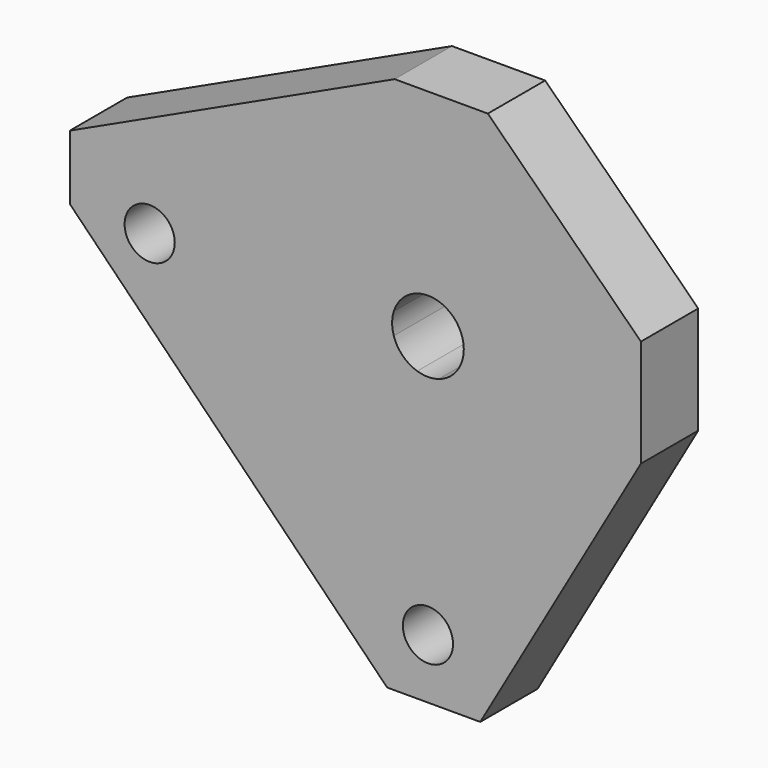
from build123d import *

# Parameters (mm, degrees)
F1_DEPTH = 5
F0_R     = 3.5
F2_DEPTH = 10


with BuildPart() as f1:
    # F0 (on Front) → F1 (new body)
    with BuildSketch(Plane.XZ):
        with BuildLine():
            ThreePointArc((-4.769696, -1.5), (-5, 0), (-4.769696, 1.5))
            Line((-4.769696, 1.5), (-24.769696, 1.5))
            Line((-24.769696, 1.5), (-24.769696, -1.5))
            Line((-24.769696, -1.5), (-4.769696, -1.5))
        make_face()
        with BuildLine():
            ThreePointArc((-1.5, 4.769696), (0, 5), (1.5, 4.769696))
            Line((1.5, 4.769696), (1.5, 24.769696))
            Line((1.5, 24.769696), (-1.5, 24.769696))
            Line((-1.5, 24.769696), (-1.5, 4.769696))
        make_face()
        with BuildLine():
            ThreePointArc((4.769696, 1.5), (4.942089, 0.758788), (5, 0))
            ThreePointArc((5, 0), (4.942089, -0.758788), (4.769696, -1.5))
            Line((4.769696, -1.5), (24.769696, -1.5))
            Line((24.769696, -1.5), (24.769696, 1.5))
            Line((24.769696, 1.5), (4.769696, 1.5))
        make_face()
        with BuildLine():
            Line((1.5, -24.769696), (1.5, -4.769696))
            ThreePointArc((1.5, -4.769696), (0, -5), (-1.5, -4.769696))
            Line((-1.5, -4.769696), (-1.5, -24.769696))
            Line((-1.5, -24.769696), (1.5, -24.769696))
        make_face()
    extrude(amount=-F1_DEPTH)


with BuildPart() as f2:
    # F0 (on Front) → F2 (new body)
    with BuildSketch(Plane.XZ):
        Polygon((-49.986798, 9), (-49.986798, 0), (-5.699021, -45.011338), (7.300979, -45.011338), (29.718812, -5.99287), (29.718812, 2.802204), (29.718812, 9.00713), (8.356749, 30.070422), (-4.643251, 30.070422), align=None)
        with Locations((0, -36.688119)):
            Circle(F0_R, mode=Mode.SUBTRACT)
        with Locations((-38.834766, 0)):
            Circle(F0_R, mode=Mode.SUBTRACT)
        with BuildLine():
            ThreePointArc((1.5, 4.769696), (3.535534, 3.535534), (4.769696, 1.5))
            Line((4.769696, 1.5), (24.769696, 1.5))
            Line((24.769696, 1.5), (24.769696, -1.5))
            Line((24.769696, -1.5), (4.769696, -1.5))
            ThreePointArc((4.769696, -1.5), (3.535534, -3.535534), (1.5, -4.769696))
            Line((1.5, -4.769696), (1.5, -24.769696))
            Line((1.5, -24.769696), (-1.5, -24.769696))
            Line((-1.5, -24.769696), (-1.5, -4.769696))
            ThreePointArc((-1.5, -4.769696), (-3.535534, -3.535534), (-4.769696, -1.5))
            Line((-4.769696, -1.5), (-24.769696, -1.5))
            Line((-24.769696, -1.5), (-24.769696, 1.5))
            Line((-24.769696, 1.5), (-4.769696, 1.5))
            ThreePointArc((-4.769696, 1.5), (-3.535534, 3.535534), (-1.5, 4.769696))
            Line((-1.5, 4.769696), (-1.5, 24.769696))
            Line((-1.5, 24.769696), (1.5, 24.769696))
            Line((1.5, 24.769696), (1.5, 4.769696))
        make_face(mode=Mode.SUBTRACT)
        with BuildLine():
            ThreePointArc((-4.769696, -1.5), (-5, 0), (-4.769696, 1.5))
            Line((-4.769696, 1.5), (-24.769696, 1.5))
            Line((-24.769696, 1.5), (-24.769696, -1.5))
            Line((-24.769696, -1.5), (-4.769696, -1.5))
        make_face()
        with BuildLine():
            ThreePointArc((-1.5, 4.769696), (0, 5), (1.5, 4.769696))
            Line((1.5, 4.769696), (1.5, 24.769696))
            Line((1.5, 24.769696), (-1.5, 24.769696))
            Line((-1.5, 24.769696), (-1.5, 4.769696))
        make_face()
        with BuildLine():
            ThreePointArc((4.769696, 1.5), (4.942089, 0.758788), (5, 0))
            ThreePointArc((5, 0), (4.942089, -0.758788), (4.769696, -1.5))
            Line((4.769696, -1.5), (24.769696, -1.5))
            Line((24.769696, -1.5), (24.769696, 1.5))
            Line((24.769696, 1.5), (4.769696, 1.5))
        make_face()
        with BuildLine():
            Line((1.5, -24.769696), (1.5, -4.769696))
            ThreePointArc((1.5, -4.769696), (0, -5), (-1.5, -4.769696))
            Line((-1.5, -4.769696), (-1.5, -24.769696))
            Line((-1.5, -24.769696), (1.5, -24.769696))
        make_face()
    extrude(amount=F2_DEPTH)


solid = Compound([f1.part, f2.part])
